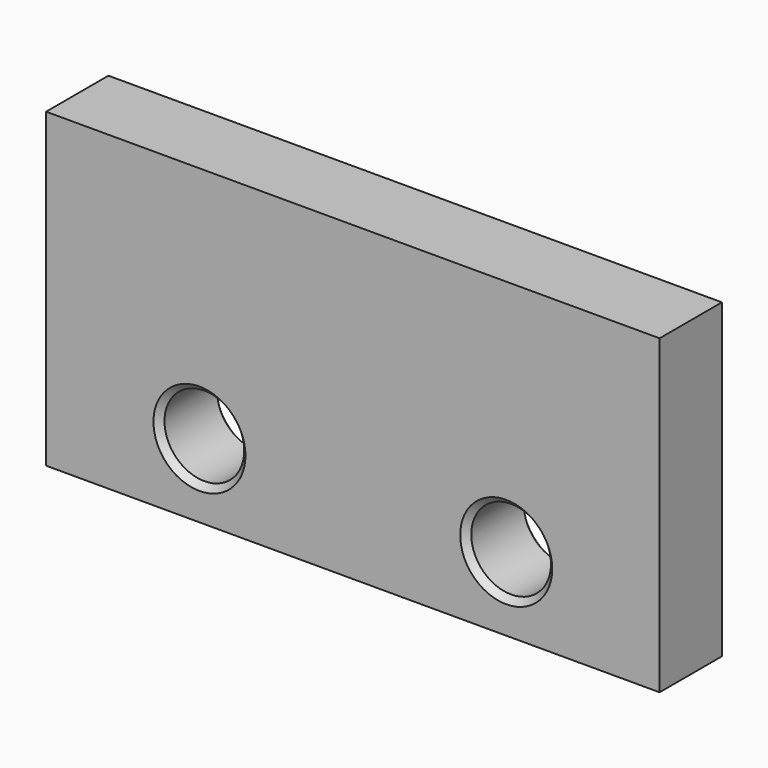
from build123d import *

# Parameters (mm, degrees)
F0_W     = 50
F0_H     = 25.4
F0_R     = 3.25
F1_DEPTH = 6.35
F2_SIZE  = 0.5


with BuildPart() as f1:
    # F0 (on Front) → F1 (new body)
    with BuildSketch(Plane.XZ):
        Rectangle(F0_W, F0_H)
        with Locations((-12.5, -6.7)):
            Circle(F0_R, mode=Mode.SUBTRACT)
        with Locations((12.5, -6.7)):
            Circle(F0_R, mode=Mode.SUBTRACT)
    extrude(amount=F1_DEPTH)

    # F2
    f2_edges = [f1.edges().sort_by_distance(p)[0] for p in [
        (-9.25, -3.175, -6.7),
        (-15.75, 0, -6.7),
        (-15.75, -6.35, -6.7),
        (15.75, -3.175, -6.7),
        (9.25, 0, -6.7),
        (9.25, -6.35, -6.7),
    ]]
    chamfer(f2_edges, length=F2_SIZE)


solid = f1.part
